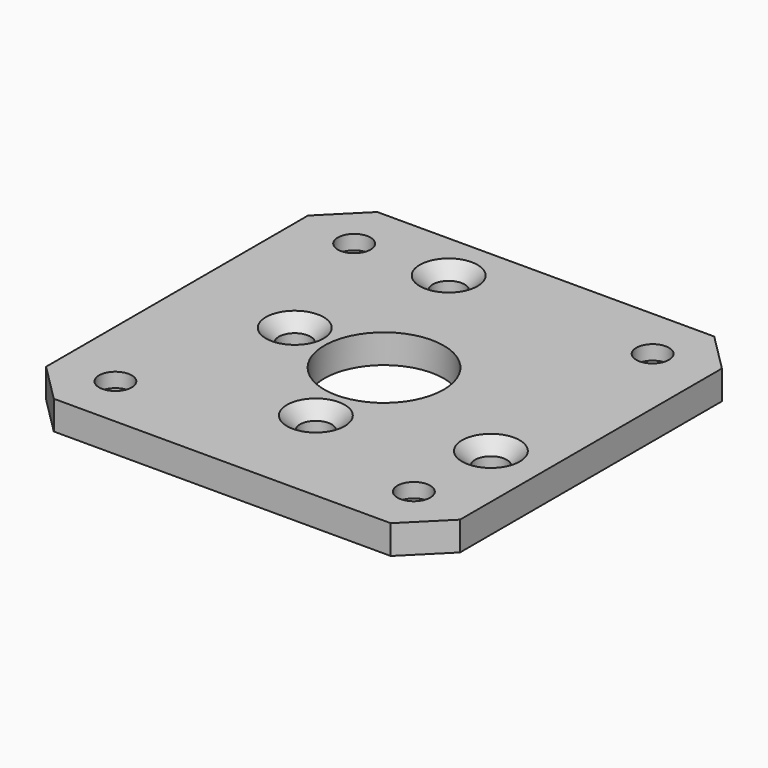
from build123d import *

# Parameters (mm, degrees)
SKETCH_W         = 43
SKETCH_H         = 42
SKETCH_R         = 6.2
SKETCH_R_2       = 1.7
PAD_DEPTH        = 1.5
HOLE_D           = 3.3
HOLE_CSINK_D     = 6
HOLE_CSINK_ANGLE = 90
POCKET_DEPTH     = 1.5
CHAMFER_SIZE     = 4


with BuildPart() as part:
    # Sketch → Pad (new body, symmetric)
    with BuildSketch(Plane.XY):
        Rectangle(SKETCH_W, SKETCH_H)
        Circle(SKETCH_R, mode=Mode.SUBTRACT)
        with Locations((-15.5, 15.5)):
            Circle(SKETCH_R_2, mode=Mode.SUBTRACT)
        with Locations((15.5, 15.5)):
            Circle(SKETCH_R_2, mode=Mode.SUBTRACT)
        with Locations((-15.5, -15.5)):
            Circle(SKETCH_R_2, mode=Mode.SUBTRACT)
        with Locations((15.5, -15.5)):
            Circle(SKETCH_R_2, mode=Mode.SUBTRACT)
    extrude(amount=PAD_DEPTH, both=True)

    # Hole (through all)
    with Locations(Plane.XY.offset(1.5)):
        with Locations((15.909903, -6.010408), (0.938052, -10.022103), (-6.010408, 15.909903), (-10.022103, 0.938052)):
            CounterSinkHole(HOLE_D / 2, HOLE_CSINK_D / 2, counter_sink_angle=HOLE_CSINK_ANGLE)

    # Sketch004 (on Face4 of Hole) → Pocket (cut)
    with BuildSketch(Plane(origin=(0, 0, -1.5), x_dir=(1, 0, 0), z_dir=(0, 0, -1))):
        Polygon((-13.883419, 12.7), (-12.266838, 15.5), (-13.883419, 18.3), (-17.116581, 18.3), (-18.733162, 15.5), (-17.116581, 12.7), align=None)
        Polygon((13.883419, 12.7), (17.116581, 12.7), (18.733162, 15.5), (17.116581, 18.3), (13.883419, 18.3), (12.266838, 15.5), align=None)
        Polygon((17.116581, -12.7), (13.883419, -12.7), (12.266838, -15.5), (13.883419, -18.3), (17.116581, -18.3), (18.733162, -15.5), align=None)
        Polygon((-13.883419, -12.7), (-17.116581, -12.7), (-18.733162, -15.5), (-17.116581, -18.3), (-13.883419, -18.3), (-12.266838, -15.5), align=None)
    extrude(amount=-POCKET_DEPTH, mode=Mode.SUBTRACT)

    # Chamfer
    chamfer_edges = [part.edges().sort_by_distance(p)[0] for p in [
        (21.5, -21, 0),
        (21.5, 21, 0),
        (-21.5, 21, 0),
        (-21.5, -21, 0),
    ]]
    chamfer(chamfer_edges, length=CHAMFER_SIZE)


solid = part.part
